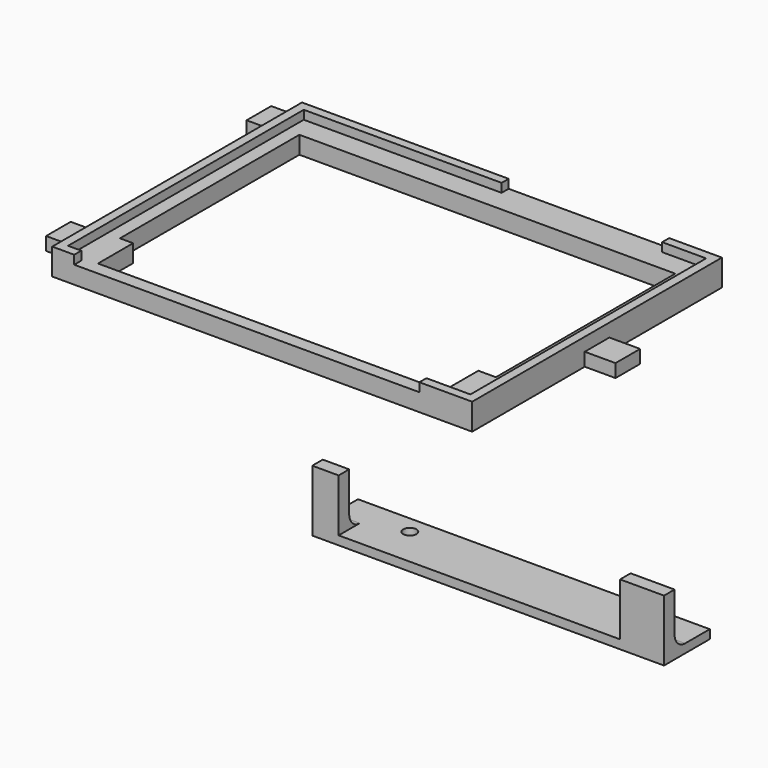
from build123d import *

# Parameters (mm, degrees)
F0_W      = 95.5
F0_H      = 71
F0_W_2    = 91.5
F0_H_2    = 67
F1_DEPTH  = 6
F2_W      = 91.5
F2_H      = 67
F3_DEPTH  = 4
F4_W      = 78.5
F4_H      = 2
F4_W_2    = 36.5
F5_DEPTH  = 2
F6_W      = 7
F6_H      = 7
F7_DEPTH  = 3
F8_W      = 80
F8_H      = 13
F8_R      = 1.5
F9_DEPTH  = 2
F10_W     = 10
F10_H     = 14
F10_W_2   = 6
F11_DEPTH = 3
F12_R     = 3


with BuildPart() as f1:
    # F0 (on Top) → F1 (new body)
    with BuildSketch(Plane.XY):
        Rectangle(F0_W, F0_H)
        Rectangle(F0_W_2, F0_H_2, mode=Mode.SUBTRACT)
    extrude(amount=F1_DEPTH)

    # F2 (on face) → F3 (join)
    with BuildSketch(Plane(origin=(0, 0, 0), x_dir=(1, 0, 0), z_dir=(0, 0, -1))):
        Rectangle(F2_W, F2_H)
        Polygon((-30.75, -28.5), (-42.75, -28.5), (-42.75, 22.5), (-39.75, 22.5), (-39.75, 32.5), (38.75, 32.5), (38.75, 22.5), (42.75, 22.5), (42.75, -28.5), (-20.75, -28.5), align=None, mode=Mode.SUBTRACT)
    extrude(amount=-F3_DEPTH)

    # F4 (on face) → F5 (cut)
    with BuildSketch(Plane.XY.offset(6)):
        with Locations((-3.5, -34.5)):
            Rectangle(F4_W, F4_H)
        with Locations((17.5, 34.5)):
            Rectangle(F4_W_2, F4_H)
    extrude(amount=-F5_DEPTH, mode=Mode.SUBTRACT)

    # F6 (on face) → F7 (join)
    with BuildSketch(Plane(origin=(0, 0, 0), x_dir=(1, 0, 0), z_dir=(0, 0, -1))):
        with Locations((-51.25, 25)):
            Rectangle(F6_W, F6_H)
        with Locations((-51.25, -32)):
            Rectangle(F6_W, F6_H)
        with Locations((51.25, 0)):
            Rectangle(F6_W, F6_H)
    extrude(amount=-F7_DEPTH)


with BuildPart() as f9:
    # F8 (on Top) → F9 (new body)
    with BuildSketch(Plane.XY):
        with Locations((90.540446, -77.946569)):
            Rectangle(F8_W, F8_H)
        with Locations((65.540446, -75.446569)):
            Circle(F8_R, mode=Mode.SUBTRACT)
        with Locations((115.540446, -75.446569)):
            Circle(F8_R, mode=Mode.SUBTRACT)
    extrude(amount=F9_DEPTH)

    # F10 (on face) → F11 (join)
    with BuildSketch(Plane.XZ.offset(84.446569)):
        with Locations((125.540446, 7)):
            Rectangle(F10_W, F10_H)
        with Locations((53.540446, 7)):
            Rectangle(F10_W_2, F10_H)
    extrude(amount=-F11_DEPTH)

    # F12
    f12_edges = [f9.edges().sort_by_distance(p)[0] for p in [
        (53.540446, -81.446569, 2),
        (125.540446, -81.446569, 2),
    ]]
    fillet(f12_edges, radius=F12_R)


solid = Compound([f1.part, f9.part])
